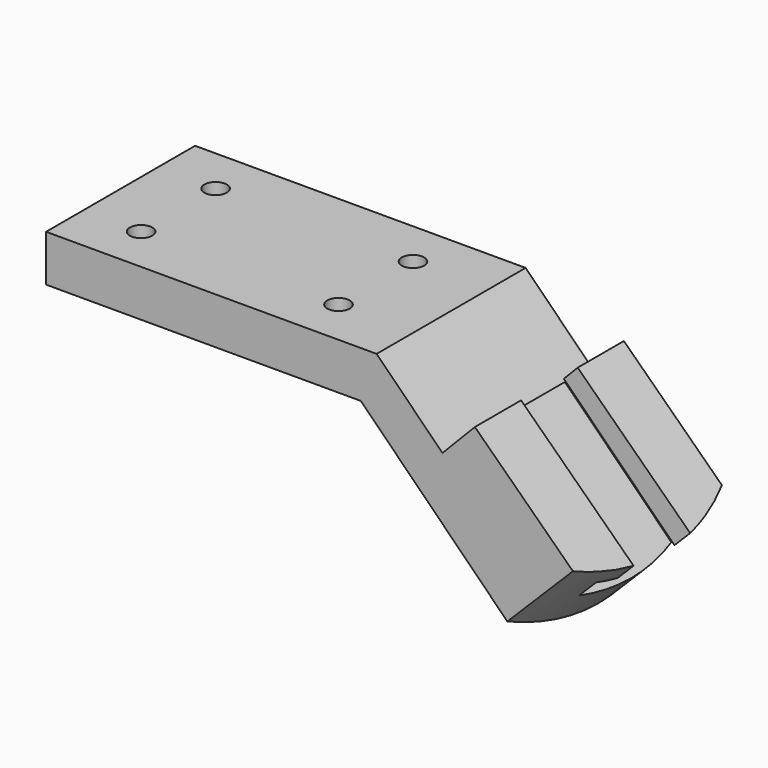
from build123d import *

# Parameters (mm, degrees)
F1_DEPTH       = 50.8
F3_D           = 6.096
F3_CBORE_D     = 12.7
F3_CBORE_DEPTH = 7.9248
F5_DEPTH       = 132.571551198
F7_DEPTH       = 53.1231379703


with BuildPart() as f1:
    # F0 (on Front) → F1 (new body)
    with BuildSketch(Plane.XZ):
        Polygon((0, 12.7), (0, 0), (85.852, 0), (130.3175357378, -44.4655357378), (148.2780479799, -26.5050234956), (116.9623968646, 3.8574382814), (108.1219795526, -5.2605122421), (90.1614673105, 12.7), align=None)
    extrude(amount=F1_DEPTH)

    # F3 (through all)
    with Locations(Plane(origin=(0, 0, 0), x_dir=(1, 0, 0), z_dir=(0, 0, -1))):
        with Locations((15.748, 38.1), (15.748, 12.7), (69.596, 12.7), (69.596, 38.1)):
            CounterBoreHole(F3_D / 2, F3_CBORE_D / 2, F3_CBORE_DEPTH)

    # F4 (on face) → F5 (cut, through all)
    with BuildSketch(Plane(origin=(87.3915357378, 0, -87.3915357378), x_dir=(0, 1, 0), z_dir=(0.7071067812, 0, -0.7071067812))):
        Polygon((-15.748, 86.1065313784), (-35.052, 86.1065313784), (-35.052, 80.0105313784), (-41.148, 80.0105313784), (-41.148, 73.4065313784), (-25.4, 73.4065313784), (-9.652, 73.4065313784), (-9.652, 80.0105313784), (-15.748, 80.0105313784), align=None)
    extrude(amount=-F5_DEPTH, mode=Mode.SUBTRACT)

    # F6 (on face) → F7 (cut, through all)
    with BuildSketch(Plane(origin=(42.926, 0, 42.926), x_dir=(0, -1, 0), z_dir=(-0.7071067812, 0, -0.7071067812))):
        with BuildLine():
            ThreePointArc((25.4, -123.590295077), (12.3070777205, -121.9743014541), (0, -117.2233134317))
            Line((0, -117.2233134317), (0, -123.590295077))
            Line((0, -123.590295077), (25.4, -123.590295077))
        make_face()
        with BuildLine():
            ThreePointArc((50.8, -117.2233134317), (38.4929222795, -121.9743014541), (25.4, -123.590295077))
            Line((25.4, -123.590295077), (50.8, -123.590295077))
            Line((50.8, -123.590295077), (50.8, -117.2233134317))
        make_face()
    extrude(amount=-F7_DEPTH, mode=Mode.SUBTRACT)


solid = f1.part
